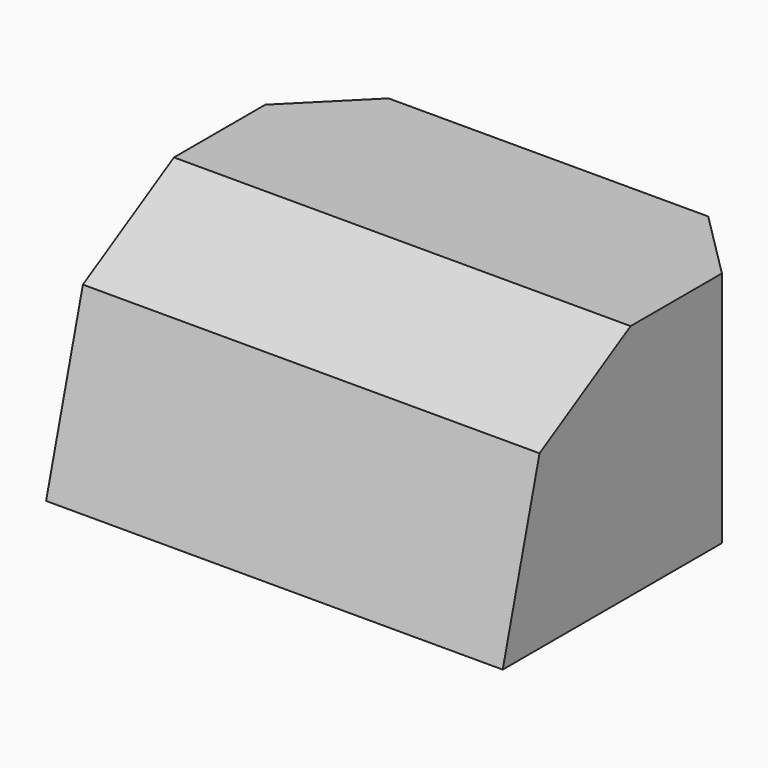
from build123d import *

# Parameters (mm, degrees)
F1_DEPTH = 132.08
F3_DEPTH = 254.001
F5_DEPTH = 254.001


with BuildPart() as f1:
    # F0 (on Top) → F1 (new body)
    with BuildSketch(Plane.XY):
        Polygon((-127, 76.2), (-127, -76.2), (127, -76.2), (127, 76.2), (88.9, 114.3), (-88.9, 114.3), align=None)
    extrude(amount=F1_DEPTH)

    # F2 (on face) → F3 (cut, through all)
    with BuildSketch(Plane.YZ.offset(127)):
        Polygon((-76.2, 132.08), (-76.2, 0), (-40.809271, 132.08), align=None)
    extrude(amount=-F3_DEPTH, mode=Mode.SUBTRACT)

    # F4 (on face) → F5 (cut, through all)
    with BuildSketch(Plane.YZ.offset(127)):
        Polygon((12.7, 132.08), (-76.2, 132.08), (-76.2, 80.753561), align=None)
    extrude(amount=-F5_DEPTH, mode=Mode.SUBTRACT)


solid = f1.part
